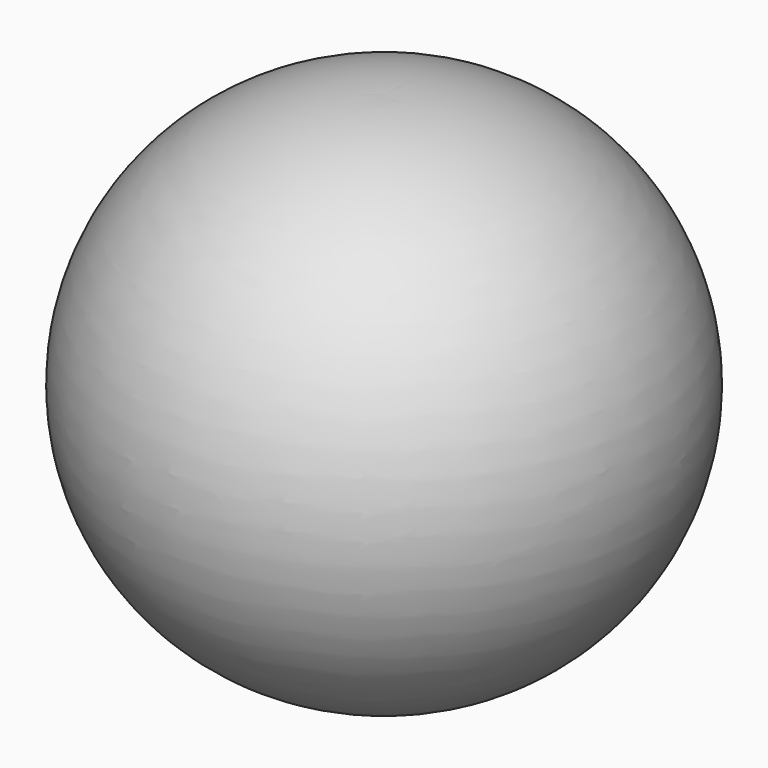
from build123d import *


with BuildPart() as f2:
    # F0 (on Right) → F2 (revolve)
    with BuildSketch(Plane.YZ):
        with BuildLine():
            Line((0, 47.5734809124), (0, 0))
            Line((0, 0), (0, -47.625))
            ThreePointArc((0, -47.625), (49.1911842135, -0.0257595438), (0, 47.5734809124))
        make_face()
    revolve(axis=Axis((0, 0, 0), (0, 0, 1)))


solid = f2.part
